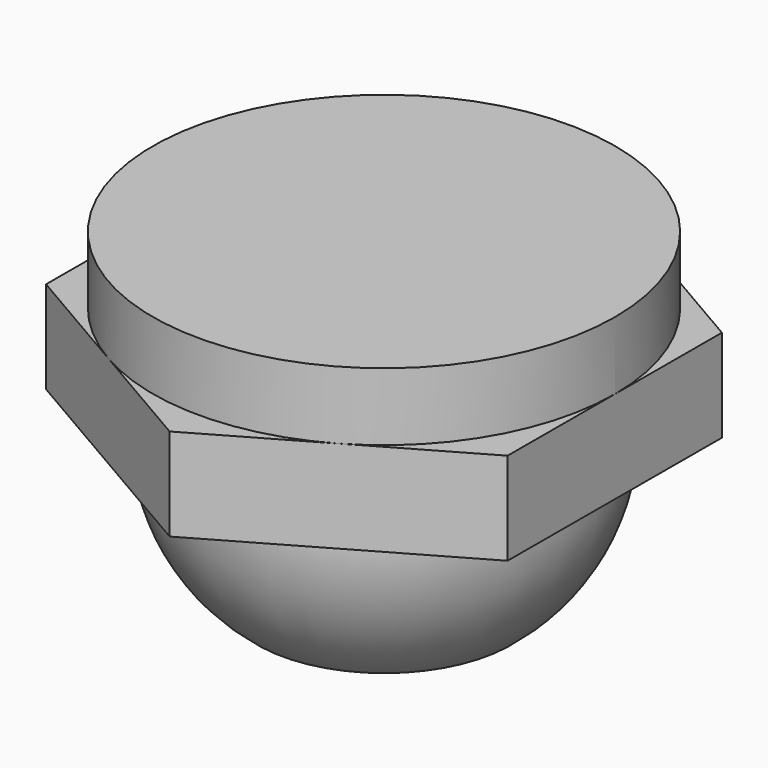
from build123d import *

# Parameters (mm, degrees)
F0_R     = 3.556
F1_DEPTH = 1.0414
F3_DEPTH = 1.4224


with BuildPart() as f1:
    # F0 (on Top) → F1 (new body)
    with BuildSketch(Plane.XY):
        Circle(F0_R)
    extrude(amount=-F1_DEPTH)

    # F2 (on face) → F3 (join)
    with BuildSketch(Plane(origin=(0, 0, -1.0414), x_dir=(1, 0, 0), z_dir=(0, 0, -1))):
        Polygon((0.011627, -4.106099), (3.561799, -2.04298), (3.550172, 2.063119), (-0.011627, 4.106099), (-3.561799, 2.04298), (-3.550172, -2.063119), align=None)
    extrude(amount=F3_DEPTH)

    # F4 (on Right) → F5 (revolve)
    with BuildSketch(Plane.YZ):
        with BuildLine():
            Line((0.006052, -2.459678), (0.006052, -4.96768))
            Line((0.006052, -4.96768), (1.953649, -4.96768))
            ThreePointArc((1.953649, -4.96768), (2.816414, -3.850818), (3.054052, -2.459678))
            Line((3.054052, -2.459678), (0.006052, -2.459678))
        make_face()
    revolve(axis=Axis((0, 0.006052, -3.713679), (0, 0, -1)))


solid = f1.part
